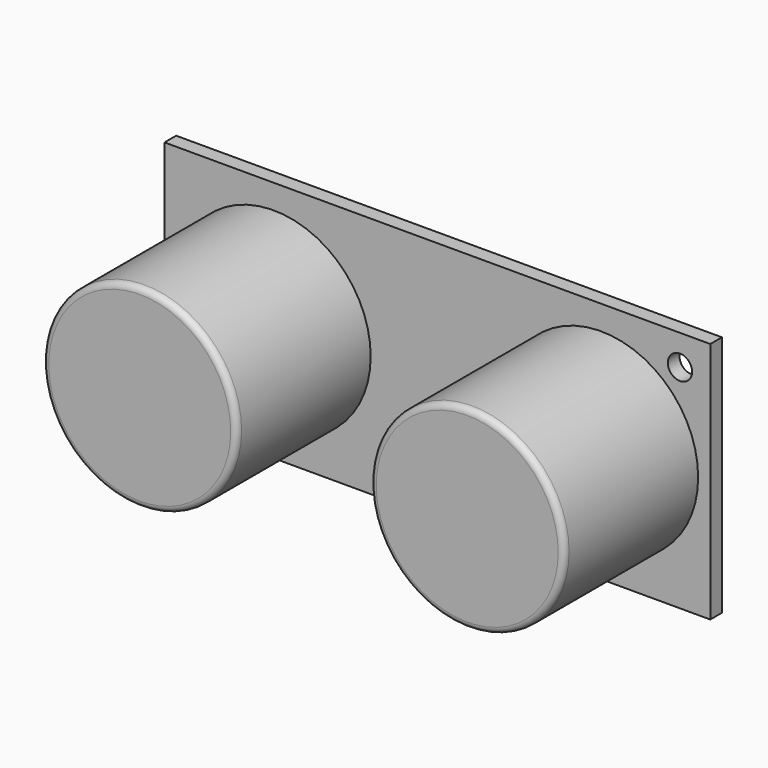
from build123d import *

# Parameters (mm, degrees)
F0_R     = 8
F1_DEPTH = 15
F0_W     = 45
F0_H     = 20
F0_R_2   = 1
F2_DEPTH = 1.2
F3_R     = 0.5


with BuildPart() as f1:
    # F0 (on Front) → F1 (new body)
    with BuildSketch(Plane.XZ):
        with Locations((-13.5, 0)):
            Circle(F0_R)
    extrude(amount=F1_DEPTH)



with BuildPart() as f1b:
    # F0 (on Front) → F1, piece 2 (new body)
    with BuildSketch(Plane.XZ):
        with Locations((13.5, 0)):
            Circle(F0_R)
    extrude(amount=F1_DEPTH)


with BuildPart() as f1_1:
    add(f1.part)

    add(f1b.part)  # F2 merges F1b
    # F0 (on Front) → F2 (join)
    with BuildSketch(Plane.XZ):
        Rectangle(F0_W, F0_H)
        with Locations((-20, -7.5)):
            Circle(F0_R_2, mode=Mode.SUBTRACT)
        with Locations((-13.5, 0)):
            Circle(F0_R, mode=Mode.SUBTRACT)
        with Locations((13.5, 0)):
            Circle(F0_R, mode=Mode.SUBTRACT)
        with Locations((20, 7.5)):
            Circle(F0_R_2, mode=Mode.SUBTRACT)
    extrude(amount=F2_DEPTH)

    # F3
    f3_edges = [f1_1.edges().sort_by_distance(p)[0] for p in [
        (-21.5, -15, 0),
        (5.5, -15, 0),
    ]]
    fillet(f3_edges, radius=F3_R)


solid = f1_1.part
